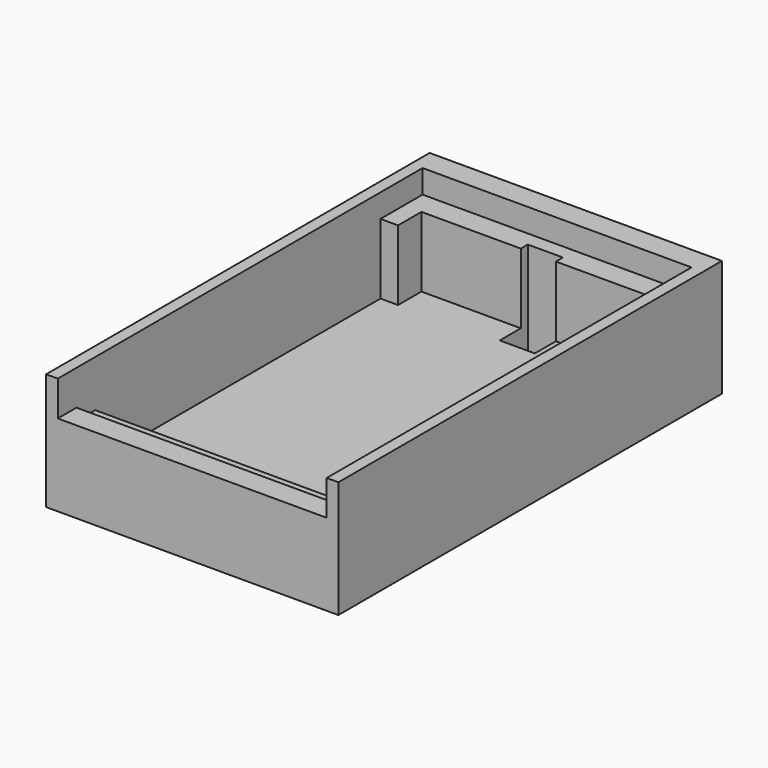
from build123d import *

# Parameters (mm, degrees)
SKETCH_W        = 25
SKETCH_H        = 41
PAD_DEPTH       = 10
SKETCH001_W     = 23
SKETCH001_H     = 37
POCKET_DEPTH    = 2
SKETCH002_W     = 23
SKETCH002_H     = 33
POCKET001_DEPTH = 6
SKETCH003_W     = 23
SKETCH003_H     = 2
POCKET002_DEPTH = 4
SKETCH005_W     = 23
SKETCH005_H     = 6
POCKET003_DEPTH = 3
SKETCH006_W     = 3
SKETCH006_H     = 3
POCKET004_DEPTH = 8.001
SKETCH012_W     = 1.5
SKETCH012_H     = 2.5
PAD004_DEPTH    = 6


with BuildPart() as part:
    # Sketch → Pad (new body)
    with BuildSketch(Plane.XY):
        Rectangle(SKETCH_W, SKETCH_H)
    extrude(amount=PAD_DEPTH)

    # Sketch001 (on Face6 of Pad) → Pocket (cut)
    with BuildSketch(Plane.XY.offset(10)):
        Rectangle(SKETCH001_W, SKETCH001_H)
    extrude(amount=-POCKET_DEPTH, mode=Mode.SUBTRACT)

    # Sketch002 (on Face11 of Pocket) → Pocket001 (cut)
    with BuildSketch(Plane.XY.offset(8)):
        Rectangle(SKETCH002_W, SKETCH002_H)
    extrude(amount=-POCKET001_DEPTH, mode=Mode.SUBTRACT)

    # Sketch003 (on Face5 of Pocket001) → Pocket002 (cut)
    with BuildSketch(Plane.XY.offset(10)):
        with Locations((0, -17.5)):
            Rectangle(SKETCH003_W, SKETCH003_H)
    extrude(amount=-POCKET002_DEPTH, mode=Mode.SUBTRACT)

    # Sketch005 (on Face5 of Pocket002) → Pocket003 (cut)
    with BuildSketch(Plane.XY.offset(10)):
        with Locations((0, -19.5)):
            Rectangle(SKETCH005_W, SKETCH005_H)
    extrude(amount=-POCKET003_DEPTH, mode=Mode.SUBTRACT)

    # Sketch006 (on Face16 of Pocket003) → Pocket004 (cut, through all)
    with BuildSketch(Plane.XY.offset(8)):
        with Locations((0, 15.75)):
            Rectangle(SKETCH006_W, SKETCH006_H)
    extrude(amount=-POCKET004_DEPTH, mode=Mode.SUBTRACT)

    # Sketch012 (on Face21 of Pocket004) → Pad004 (join)
    with BuildSketch(Plane.XY.offset(2)):
        with Locations((-10.75, 15.25)):
            Rectangle(SKETCH012_W, SKETCH012_H)
        with Locations((10.75, 15.25)):
            Rectangle(SKETCH012_W, SKETCH012_H)
    extrude(amount=PAD004_DEPTH)


solid = part.part
